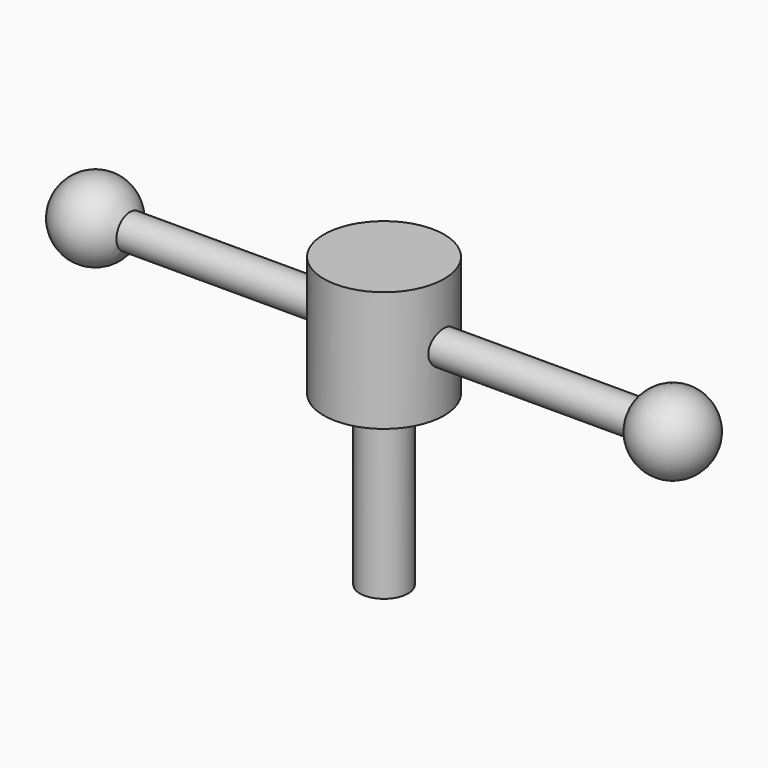
from build123d import *

# Parameters (mm, degrees)
F0_R     = 6.35
F1_DEPTH = 76.2
F2_R     = 15.875
F3_DEPTH = 31.75
F5_DEPTH = 76.2


with BuildPart() as f1:
    # F0 (on Top) → F1 (new body)
    with BuildSketch(Plane.XY):
        Circle(F0_R)
    extrude(amount=F1_DEPTH)

    # F2 (on face) → F3 (join)
    with BuildSketch(Plane.XY.offset(76.2)):
        Circle(F2_R)
    extrude(amount=-F3_DEPTH)

    # F4 (on Right) → F5 (join, symmetric)
    with BuildSketch(Plane.YZ):
        with BuildLine():
            ThreePointArc((0, 55.88), (3.1430896424, 57.1819103576), (4.445, 60.325))
            ThreePointArc((4.445, 60.325), (-3.1430896424, 63.4680896424), (0, 55.88))
        make_face()
    extrude(amount=F5_DEPTH, both=True)

    # F6 (on face) → F7 (revolve)
    with BuildSketch(Plane.YZ.offset(76.2)):
        with BuildLine():
            Line((4.445, 60.325), (10.16, 60.325))
            ThreePointArc((10.16, 60.325), (0, 70.485), (-10.16, 60.325))
            Line((-10.16, 60.325), (-4.445, 60.325))
            ThreePointArc((-4.445, 60.325), (0, 64.77), (4.445, 60.325))
        make_face()
    revolve(axis=Axis((76.2, -5.08, 60.325), (0, -1, 0)))

    # F8 (on face) → F9 (revolve)
    with BuildSketch(Plane(origin=(-76.2, 0, 0), x_dir=(0, -1, 0), z_dir=(-1, 0, 0))):
        with BuildLine():
            Line((4.445, 60.325), (10.16, 60.325))
            ThreePointArc((10.16, 60.325), (0, 70.485), (-10.16, 60.325))
            Line((-10.16, 60.325), (-4.445, 60.325))
            ThreePointArc((-4.445, 60.325), (0, 64.77), (4.445, 60.325))
        make_face()
    revolve(axis=Axis((-76.2, 0, 60.325), (0, -1, 0)))


solid = f1.part
